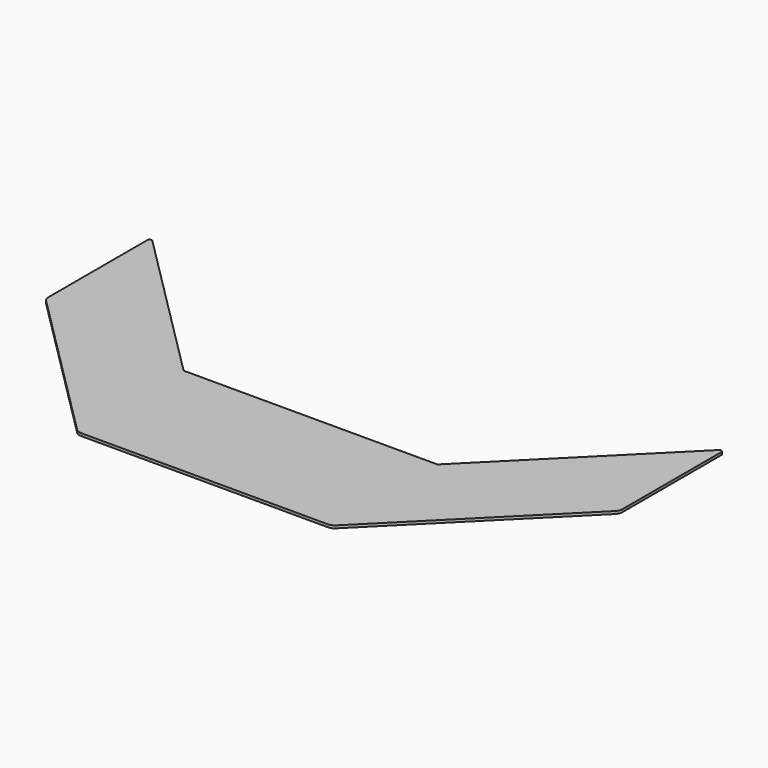
from build123d import *

# Parameters (mm, degrees)
F1_DEPTH = 6


with BuildPart() as f1:
    # F0 (on Top) → F1 (new body)
    with BuildSketch(Plane.XY):
        with BuildLine():
            Line((287.5, 150), (-287.5, 150))
            Line((-287.5, 150), (-641.464466, 503.964466))
            ThreePointArc((-641.464466, 503.964466), (-646.913417, 505.04833), (-650, 500.428932))
            Line((-650, 500.428932), (-650, 220.784271))
            ThreePointArc((-650, 220.784271), (-648.477591, 213.130603), (-644.142136, 206.642136))
            Line((-644.142136, 206.642136), (-293.357864, -144.142136))
            ThreePointArc((-293.357864, -144.142136), (-286.869397, -148.477591), (-279.215729, -150))
            Line((-279.215729, -150), (279.215729, -150))
            ThreePointArc((279.215729, -150), (286.869397, -148.477591), (293.357864, -144.142136))
            Line((293.357864, -144.142136), (644.142136, 206.642136))
            ThreePointArc((644.142136, 206.642136), (648.477591, 213.130603), (650, 220.784271))
            Line((650, 220.784271), (650, 500.428932))
            ThreePointArc((650, 500.428932), (646.913417, 505.04833), (641.464466, 503.964466))
            Line((641.464466, 503.964466), (287.5, 150))
        make_face()
    extrude(amount=F1_DEPTH)


solid = f1.part
